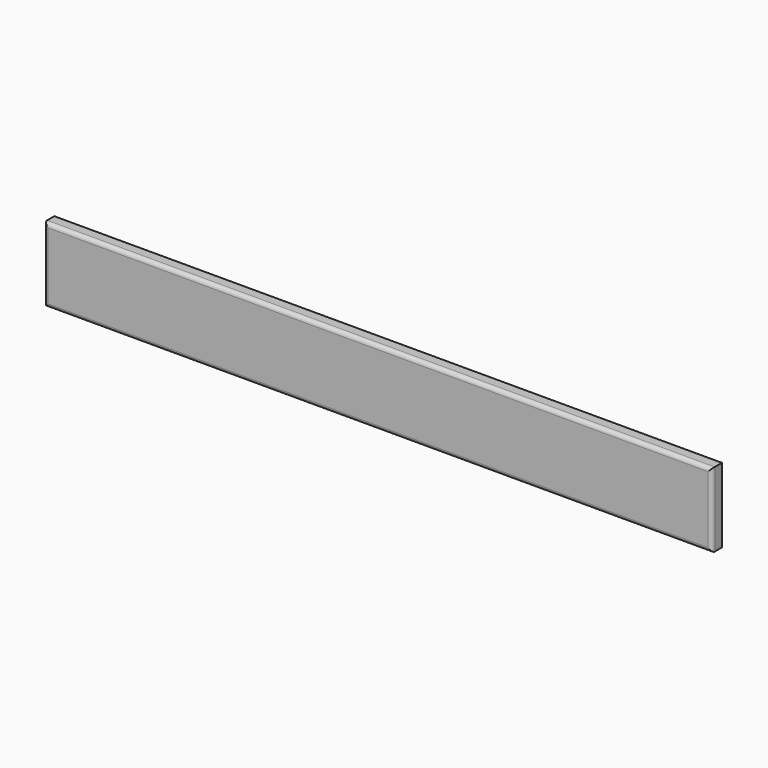
from build123d import *

# Parameters (mm, degrees)
F0_W     = 181.633234024
F0_H     = 57.9366758466
F1_DEPTH = 5
F2_DEPTH = 29.229
F3_DEPTH = 261.91
F4_R     = 1.5


with BuildPart() as f1:
    # F0 (on Front) → F1 (new body)
    with BuildSketch(Plane.XZ):
        with Locations((0, 3.5628564656)):
            Rectangle(F0_W, F0_H)
    extrude(amount=F1_DEPTH)

    # F2 (intersect): a face of the model
    f2_faces = [f1.faces().sort_by_distance(p)[0] for p in [
        (0, -2.5, 32.5311943889),
    ]]
    extrude(f2_faces, amount=-F2_DEPTH, mode=Mode.INTERSECT)

    # F3 (add): a face of the model
    f3_faces = [f1.faces().sort_by_distance(p)[0] for p in [
        (-90.816617012, -2.5, 17.9166943889),
    ]]
    extrude(f3_faces, amount=-F3_DEPTH)

    # F4
    f4_edges = [f1.edges().sort_by_distance(p)[0] for p in [
        (40.138383, -5, 3.302194),
        (171.093383, -5, 17.916694),
        (40.138383, -5, 32.531194),
        (-90.816617, -5, 17.916694),
    ]]
    fillet(f4_edges, radius=F4_R)


solid = f1.part
